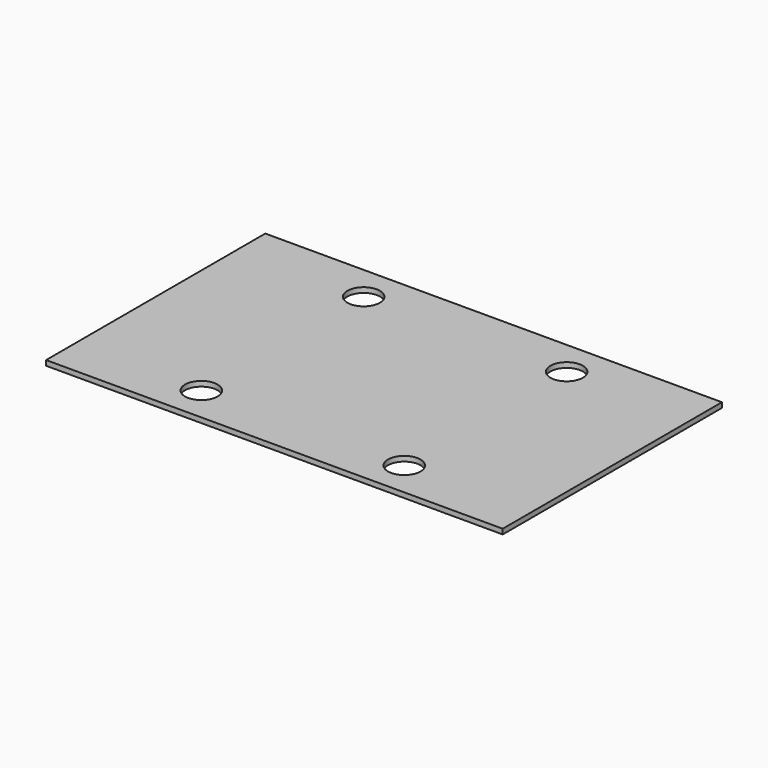
from build123d import *

# Parameters (mm, degrees)
SKETCH_W     = 45
SKETCH_H     = 27
PAD_DEPTH    = 0.5
SKETCH001_R  = 1.6
POCKET_DEPTH = 5


with BuildPart() as part:
    # Sketch → Pad (new body)
    with BuildSketch(Plane.XY):
        Rectangle(SKETCH_W, SKETCH_H)
    extrude(amount=PAD_DEPTH)

    # Sketch001 (on Face6 of Pad) → Pocket (cut)
    with BuildSketch(Plane.XY.offset(0.5)):
        with Locations((-10, 10)):
            Circle(SKETCH001_R)
        with Locations((10, 10)):
            Circle(SKETCH001_R)
        with Locations((-10, -10)):
            Circle(SKETCH001_R)
        with Locations((10, -10)):
            Circle(SKETCH001_R)
    extrude(amount=-POCKET_DEPTH, mode=Mode.SUBTRACT)


solid = part.part
